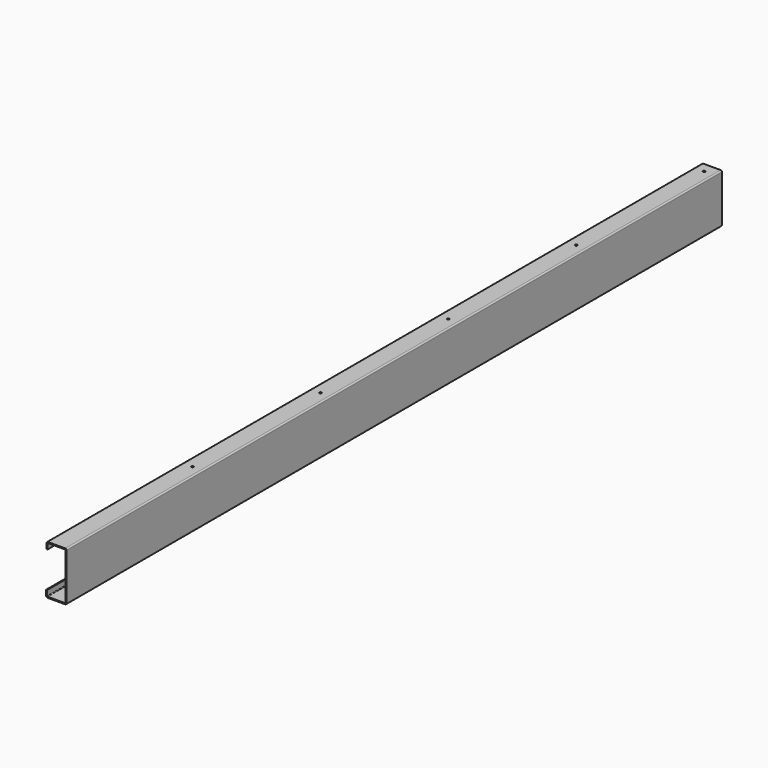
from build123d import *

# Parameters (mm, degrees)
F1_DEPTH = 2438.4
F2_W     = 49.059084
F2_H     = 106.4133
F3_DEPTH = 140.3941152
F4_R     = 3.175
F5_DEPTH = 3.302


with BuildPart() as f1:
    # F0 (on Front) → F1 (new body)
    with BuildSketch(Plane.XZ):
        with BuildLine():
            Line((-10.5452926, -75.1112544), (-10.5452926, -60.6967544))
            Line((-10.5452926, -60.6967544), (-13.5932926, -60.6967544))
            Line((-13.5932926, -60.6967544), (-13.5932926, -75.1112544))
            ThreePointArc((-13.5932926, -75.1112544), (-12.2355860842, -78.3890478842), (-8.9577926, -79.7467544))
            Line((-8.9577926, -79.7467544), (40.7343864, -79.7467544))
            ThreePointArc((40.7343864, -79.7467544), (43.4284632363, -78.6308312363), (44.5443864, -75.9367544))
            Line((44.5443864, -75.9367544), (44.5443864, 56.8363608))
            ThreePointArc((44.5443864, 56.8363608), (43.4284632363, 59.5304376363), (40.7343864, 60.6463608))
            Line((40.7343864, 60.6463608), (-8.3246976, 60.6463608))
            ThreePointArc((-8.3246976, 60.6463608), (-11.0187744363, 59.5304376363), (-12.1346976, 56.8363608))
            Line((-12.1346976, 56.8363608), (-12.1346976, 41.5963608))
            Line((-12.1346976, 41.5963608), (-9.0866976, 41.5963608))
            Line((-9.0866976, 41.5963608), (-9.0866976, 56.8363608))
            ThreePointArc((-9.0866976, 56.8363608), (-8.8635129673, 57.3751761673), (-8.3246976, 57.5983608))
            Line((-8.3246976, 57.5983608), (40.7343864, 57.5983608))
            ThreePointArc((40.7343864, 57.5983608), (41.2732017673, 57.3751761673), (41.4963864, 56.8363608))
            Line((41.4963864, 56.8363608), (41.4963864, -75.9367544))
            ThreePointArc((41.4963864, -75.9367544), (41.2732017673, -76.4755697673), (40.7343864, -76.6987544))
            Line((40.7343864, -76.6987544), (-8.9577926, -76.6987544))
            ThreePointArc((-8.9577926, -76.6987544), (-10.0803246151, -76.2337864151), (-10.5452926, -75.1112544))
        make_face()
    extrude(amount=F1_DEPTH)

    # F2 (on face) → F3 (cut, through all)
    with BuildSketch(Plane.XY.offset(60.6463608)):
        Polygon((-56.2798976, -106.4133), (-8.3246976, -106.4133), (-8.3246976, 0), (40.7343864, 0), (40.7343864, -106.4133), (92.9059864, -106.4133), (92.9059864, 23.1394), (-56.2798976, 23.1394), align=None)
        with Locations((16.2048444, -53.20665)):
            Rectangle(F2_W, F2_H)
    extrude(amount=-F3_DEPTH, mode=Mode.SUBTRACT)

    # F4 (on face) → F5 (cut)
    with BuildSketch(Plane.XY.offset(60.6463608)):
        with Locations((16.2048444, -134.3406)):
            Circle(F4_R)
        with Locations((16.2048444, -589.407)):
            Circle(F4_R)
        with Locations((16.2048444, -1044.4734)):
            Circle(F4_R)
        with Locations((16.2048444, -1499.5398)):
            Circle(F4_R)
        with Locations((16.2048444, -1954.6062)):
            Circle(F4_R)
    extrude(amount=-F5_DEPTH, mode=Mode.SUBTRACT)


solid = f1.part
